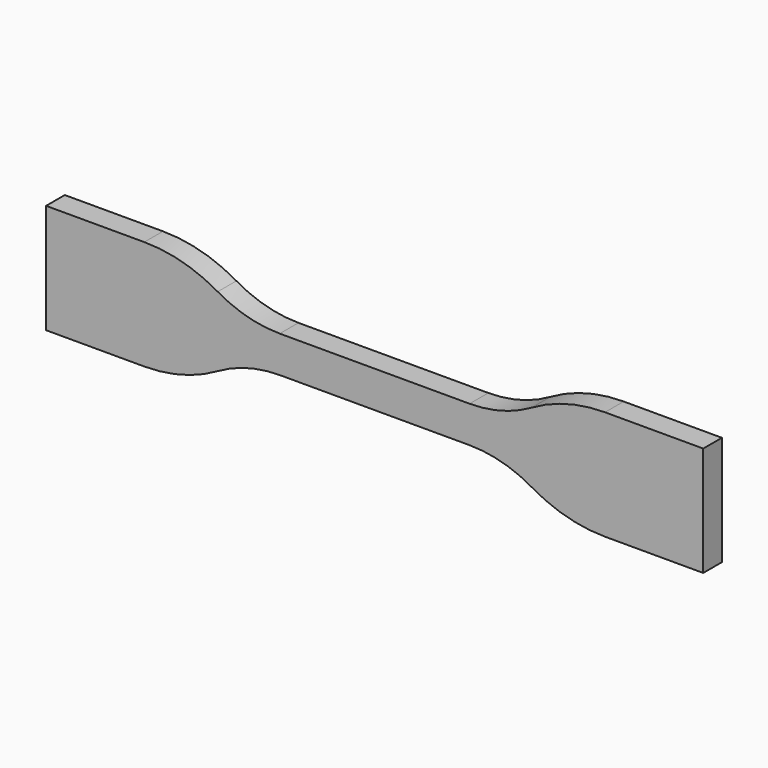
from build123d import *

# Parameters (mm, degrees)
F1_DEPTH = 4.064


with BuildPart() as f1:
    # F0 (on Front) → F1 (new body)
    with BuildSketch(Plane.XZ):
        with BuildLine():
            Line((16.51, 3.175), (0, 3.175))
            Line((0, 3.175), (-16.51, 3.175))
            ThreePointArc((-16.51, 3.175), (-22.096596, 3.914817), (-27.298058, 6.083266))
            ThreePointArc((-27.298058, 6.083266), (-33.453635, 8.649477), (-40.064991, 9.525))
            Line((-40.064991, 9.525), (-57.15, 9.525))
            Line((-57.15, 9.525), (-57.15, -9.525))
            Line((-57.15, -9.525), (-40.064991, -9.525))
            ThreePointArc((-40.064991, -9.525), (-33.453635, -8.649477), (-27.298058, -6.083266))
            ThreePointArc((-27.298058, -6.083266), (-22.096596, -3.914817), (-16.51, -3.175))
            Line((-16.51, -3.175), (0, -3.175))
            Line((0, -3.175), (16.51, -3.175))
            ThreePointArc((16.51, -3.175), (22.096596, -3.914817), (27.298058, -6.083266))
            ThreePointArc((27.298058, -6.083266), (33.453635, -8.649477), (40.064991, -9.525))
            Line((40.064991, -9.525), (57.15, -9.525))
            Line((57.15, -9.525), (57.15, 9.525))
            Line((57.15, 9.525), (40.064991, 9.525))
            ThreePointArc((40.064991, 9.525), (33.453635, 8.649477), (27.298058, 6.083266))
            ThreePointArc((27.298058, 6.083266), (22.096596, 3.914817), (16.51, 3.175))
        make_face()
    extrude(amount=F1_DEPTH)


solid = f1.part
